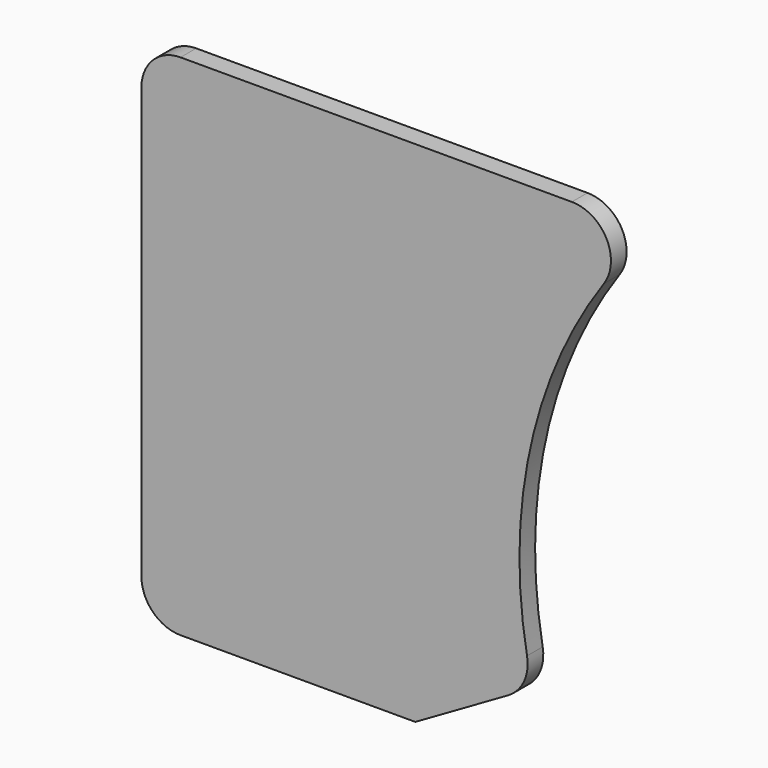
from build123d import *

# Parameters (mm, degrees)
F1_DEPTH = 3.175
F2_T     = -1.5875
F3_R     = 3.175
F4_DEPTH = 2.38125


with BuildPart() as f1:
    # F0 (on Front) → F1 (new body)
    with BuildSketch(Plane.XZ):
        with BuildLine():
            Line((44.45, 0), (-19.05, 0))
            ThreePointArc((-19.05, 0), (-23.540128, -1.859872), (-25.4, -6.35))
            Line((-25.4, -6.35), (-25.4, -76.2))
            ThreePointArc((-25.4, -76.2), (-23.540128, -80.690128), (-19.05, -82.55))
            Line((-19.05, -82.55), (19.05, -82.55))
            Line((19.05, -82.55), (34.108921, -73.855728))
            ThreePointArc((34.108921, -73.855728), (36.696187, -71.024571), (37.181415, -67.220106))
            ThreePointArc((37.181415, -67.220106), (37.699595, -37.354898), (49.657796, -9.983368))
            ThreePointArc((49.657796, -9.983368), (50.080026, -3.413113), (44.45, 0))
        make_face()
    extrude(amount=-F1_DEPTH)

    # F2
    f2_openings = [f1.faces().sort_by_distance(p)[0] for p in [
        (7.276457, 3.175, -39.048077),
    ]]
    offset(amount=F2_T, openings=f2_openings)

    # F3 (on face) → F4 (join)
    with BuildSketch(Plane(origin=(0, 1.5875, 0), x_dir=(-1, 0, 0), z_dir=(0, 1, 0))):
        with Locations((-41.275, -9.525)):
            Circle(F3_R)
        with Locations((-12.7, -9.525)):
            Circle(F3_R)
        with Locations((-30.1625, -34.925)):
            Circle(F3_R)
        with Locations((-22.225, -65.0875)):
            Circle(F3_R)
    extrude(amount=F4_DEPTH)


solid = f1.part
